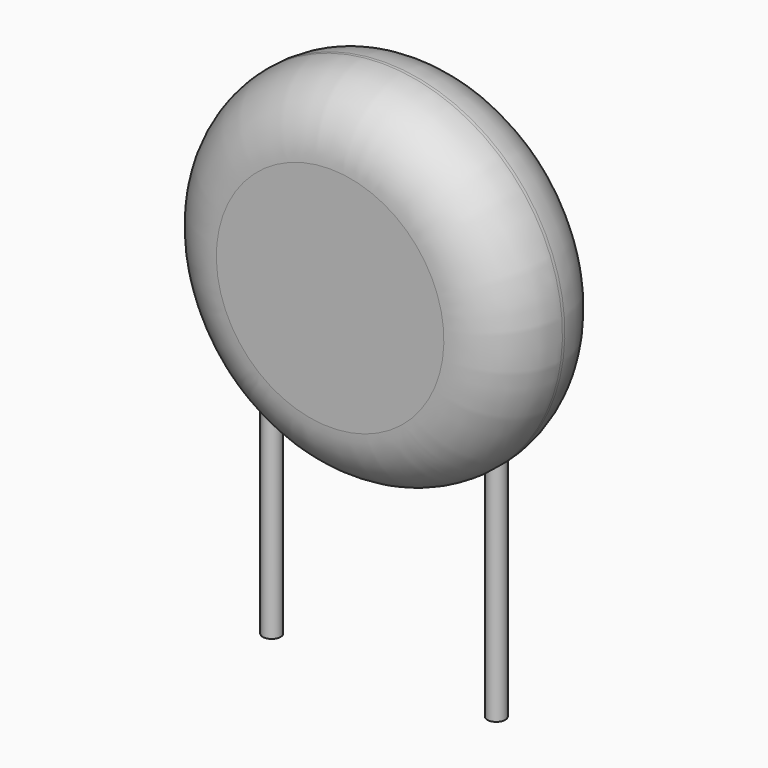
from build123d import *

# Parameters (mm, degrees)
CYLINDER001_R          = 0.3
CYLINDER001_DEPTH      = 10
CYLINDER002_R          = 0.3
CYLINDER002_DEPTH      = 10
CYLINDER_R             = 6
CYLINDER_DEPTH         = 4.5
FILLET_R               = 2.2
FILLET_PITCH_ANGLE     = -90
FILLET_PLACEMENT_ANGLE = 90


with BuildPart() as pin1:
    # Cylinder001 → Cylinder001 (new body)
    with BuildSketch(Plane(origin=(-3.75, 0, -3), x_dir=(1, 0, 0), z_dir=(0, 0, 1))):
        Circle(CYLINDER001_R)
    extrude(amount=CYLINDER001_DEPTH)


with BuildPart() as pin2:
    # Cylinder002 → Cylinder002 (new body)
    with BuildSketch(Plane(origin=(3.75, 0, -3), x_dir=(1, 0, 0), z_dir=(0, 0, 1))):
        Circle(CYLINDER002_R)
    extrude(amount=CYLINDER002_DEPTH)


with BuildPart() as fusion:
    # Cylinder → Cylinder (new body)
    with BuildSketch(Plane.XY):
        Circle(CYLINDER_R)
    extrude(amount=CYLINDER_DEPTH)

    # Fillet
    fillet_edges = [fusion.edges().sort_by_distance(p)[0] for p in [
        (-6, 0, 4.5),
        (-6, 0, 0),
    ]]
    fillet(fillet_edges, radius=FILLET_R)


with BuildPart() as fusion_1:
    # Fillet pitch: moved
    add(fusion.part.rotate(Axis((0, 0, 0), (0, 1, 0)), FILLET_PITCH_ANGLE))


with BuildPart() as fusion_2:
    # Fillet placement: moved
    add(fusion_1.part.moved(Location((0, 2.25, 9))).rotate(Axis((0, 2.25, 9), (0, 0, 1)), FILLET_PLACEMENT_ANGLE))

    # Fusion: union Pin1, Pin2
    add(pin1.part)
    add(pin2.part)


solid = fusion_2.part
